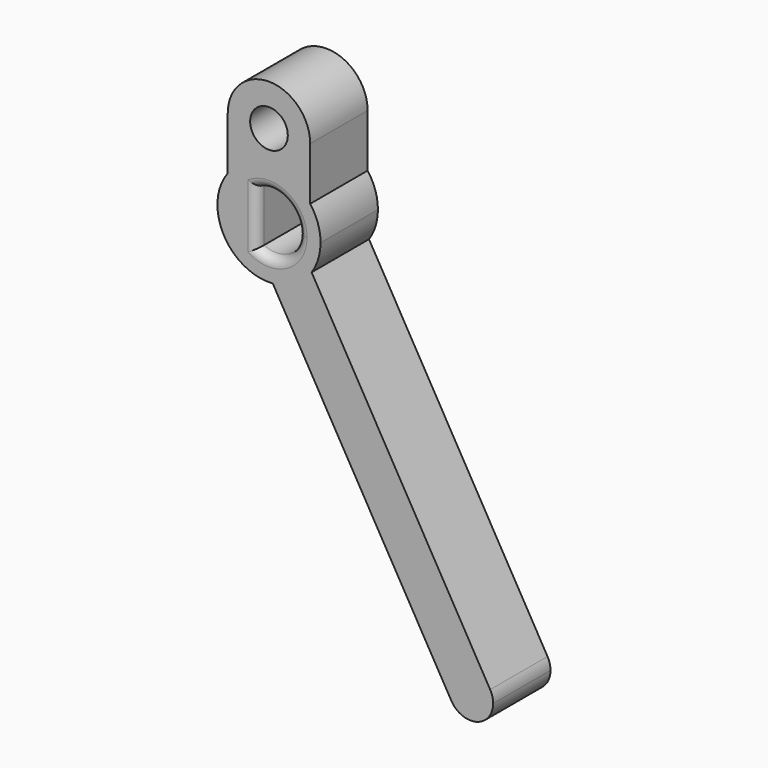
from build123d import *

# Parameters (mm, degrees)
F0_R     = 2.1
F1_DEPTH = 8
F2_R     = 1


with BuildPart() as f1:
    # F0 (on Front) → F1 (new body)
    with BuildSketch(Plane.XZ):
        with BuildLine():
            ThreePointArc((-4.6, 3.45), (0, 5.75), (4.6, 3.45))
            Line((4.6, 3.45), (4.6, 9.35))
            ThreePointArc((4.6, 9.35), (0, 13.95), (-4.6, 9.35))
            Line((-4.6, 9.35), (-4.6, 3.45))
        make_face()
        with Locations((0, 9.35)):
            Circle(F0_R, mode=Mode.SUBTRACT)
        with BuildLine():
            ThreePointArc((4.754103, -3.234348), (5.495389, -1.692101), (5.75, 0))
            ThreePointArc((5.75, 0), (5.454929, 1.81831), (4.6, 3.45))
            ThreePointArc((4.6, 3.45), (0, 5.75), (-4.6, 3.45))
            ThreePointArc((-4.6, 3.45), (-5.044587, -2.759465), (0.423976, -5.734348))
            ThreePointArc((0.423976, -5.734348), (2.875, -4.979646), (4.754103, -3.234348))
        make_face()
        with BuildLine():
            ThreePointArc((-1.35, 2.956349), (1.757128, 2.734045), (3.25, 0))
            ThreePointArc((3.25, 0), (1.757128, -2.734045), (-1.35, -2.956349))
            ThreePointArc((-1.35, -2.956349), (-3.25, 0), (-1.35, 2.956349))
        make_face(mode=Mode.SUBTRACT)
        with BuildLine():
            Line((-1.35, -2.956349), (-1.35, 2.956349))
            ThreePointArc((-1.35, 2.956349), (-3.25, 0), (-1.35, -2.956349))
        make_face()
        with BuildLine():
            Line((24.665064, -37.721143), (4.754103, -3.234348))
            ThreePointArc((4.754103, -3.234348), (2.875, -4.979646), (0.423976, -5.734348))
            Line((0.423976, -5.734348), (20.334936, -40.221143))
            ThreePointArc((20.334936, -40.221143), (21.25, -36.80608), (24.665064, -37.721143))
        make_face()
        with BuildLine():
            ThreePointArc((25, -38.971143), (24.914815, -38.324096), (24.665064, -37.721143))
            ThreePointArc((24.665064, -37.721143), (21.25, -36.80608), (20.334936, -40.221143))
            ThreePointArc((20.334936, -40.221143), (23.147048, -41.385958), (25, -38.971143))
        make_face()
    extrude(amount=F1_DEPTH)

    # F2
    f2_edges = [f1.edges().sort_by_distance(p)[0] for p in [
        (1.757128, -8, 2.734045),
        (1.757128, -8, -2.734045),
        (-1.35, -8, 0),
    ]]
    fillet(f2_edges, radius=F2_R)


solid = f1.part
